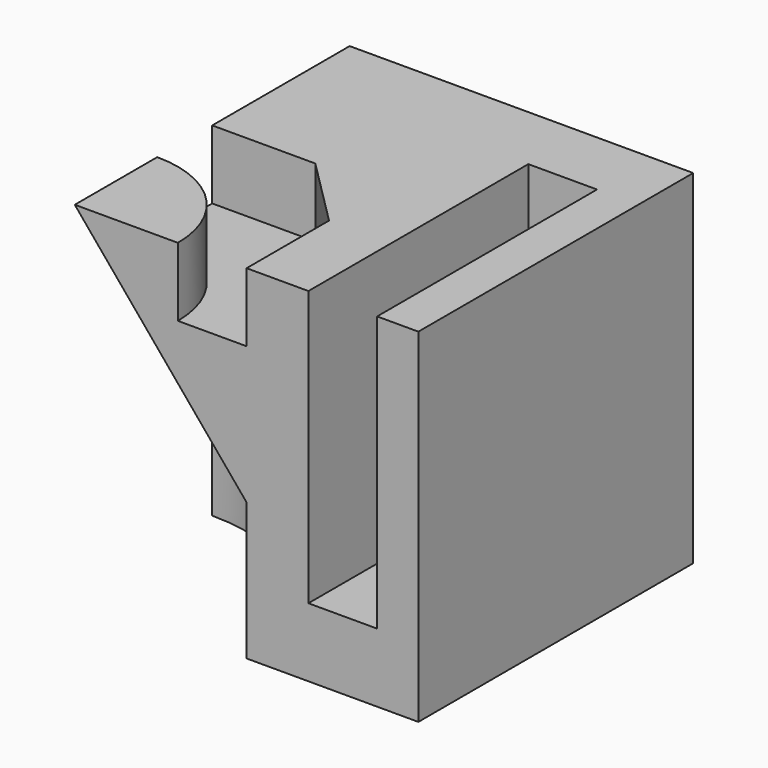
from build123d import *

# Parameters (mm, degrees)
F0_W      = 50
F0_H      = 50
F1_DEPTH  = 50
F3_DEPTH  = 10
F4_R      = 25
F5_DEPTH  = 20
F11_DEPTH = 10


with BuildPart() as f1:
    # F0 (on Top) → F1 (new body)
    with BuildSketch(Plane.XY):
        with Locations((25, 25)):
            Rectangle(F0_W, F0_H)
    extrude(amount=F1_DEPTH)

    # F2 (on face) → F3 (cut)
    with BuildSketch(Plane.XY.offset(50)):
        with BuildLine():
            ThreePointArc((0, 15), (-10.6066017178, -10.6066017178), (15, 0))
            Line((15, 0), (0, 0))
            Line((0, 0), (0, 15))
        make_face()
        with BuildLine():
            ThreePointArc((0, 15), (10.6066017178, 10.6066017178), (15, 0))
            Line((15, 0), (25, 0))
            Line((25, 0), (25, 15.000000596))
            Line((25, 15.000000596), (15, 25))
            Line((15, 25), (0, 25))
            Line((0, 25), (0, 15))
        make_face()
    extrude(amount=-F3_DEPTH, mode=Mode.SUBTRACT)

    # F4 (on face) → F5 (cut)
    with BuildSketch(Plane(origin=(0, 0, 0), x_dir=(1, 0, 0), z_dir=(0, 0, -1))):
        Circle(F4_R)
    extrude(amount=-F5_DEPTH, mode=Mode.SUBTRACT)

    # F6 (on face) → F7 (revolve, cut)
    with BuildSketch(Plane.XZ):
        Polygon((25, 20), (0, 50), (0, 20), align=None)
    revolve(axis=Axis((0, 0, 35), (0, 0, -1)), mode=Mode.SUBTRACT)

    # F10 (on offset) → F11 (cut, through all)
    with BuildSketch(Plane.YZ.offset(44)):
        Polygon((0, 50), (0, 10), (30, 10), (30, 20), (40, 20), (40, 50), align=None)
        with BuildLine():
            Line((30, 20), (30, 10))
            ThreePointArc((30, 10), (37.0710678119, 12.9289321881), (40, 20))
            Line((40, 20), (30, 20))
        make_face()
    extrude(amount=-F11_DEPTH, mode=Mode.SUBTRACT)


solid = f1.part
